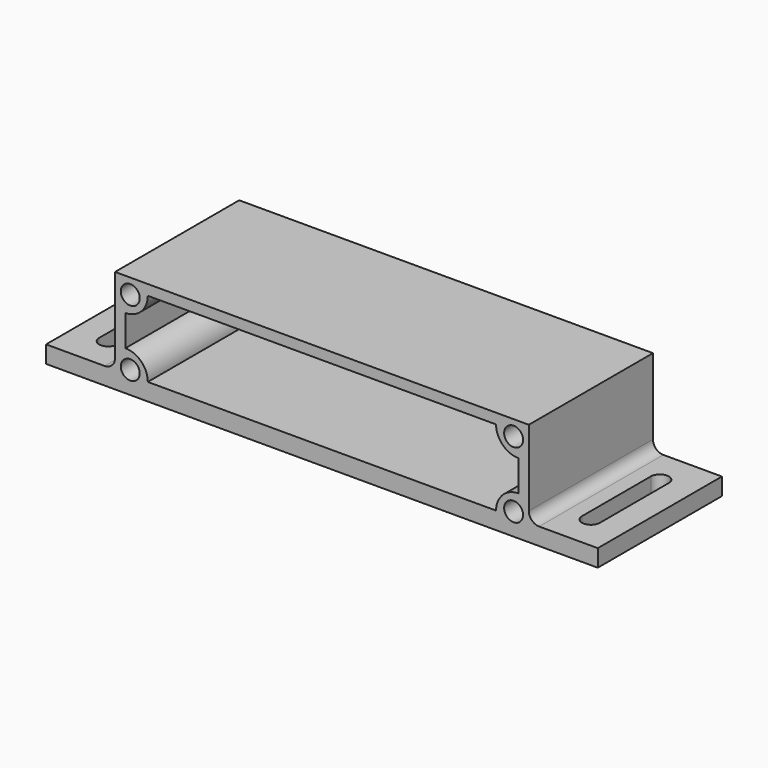
from build123d import *

# Parameters (mm, degrees)
F1_DEPTH = 45
F2_W     = 114
F2_H     = 22
F3_DEPTH = 50
F5_DEPTH = 45
F6_R     = 3
F8_DEPTH = 5
F10_D    = 5.5


with BuildPart() as f1:
    # F0 (on Front) → F1 (new body)
    with BuildSketch(Plane.XZ):
        Polygon((0, 5), (0, 0), (160, 0), (160, 5), (140, 5), (140, 30), (20, 30), (20, 5), align=None)
    extrude(amount=F1_DEPTH)

    # F2 (on face) → F3 (cut)
    with BuildSketch(Plane.XZ.offset(45)):
        with Locations((80, 16)):
            Rectangle(F2_W, F2_H)
    extrude(amount=-F3_DEPTH, mode=Mode.SUBTRACT)

    # F4 (on face) → F5 (join, through all)
    with BuildSketch(Plane.XZ.offset(45)):
        with BuildLine():
            ThreePointArc((29.5, 5), (27.5961940777, 9.5961940777), (23, 11.5))
            Line((23, 11.5), (23, 5))
            Line((23, 5), (29.5, 5))
        make_face()
        with BuildLine():
            Line((23, 27), (23, 20.5))
            ThreePointArc((23, 20.5), (27.5961940777, 22.4038059223), (29.5, 27))
            Line((29.5, 27), (23, 27))
        make_face()
        with BuildLine():
            Line((137, 27), (130.5, 27))
            ThreePointArc((130.5, 27), (132.4038059223, 22.4038059223), (137, 20.5))
            Line((137, 20.5), (137, 27))
        make_face()
        with BuildLine():
            ThreePointArc((137, 11.5), (132.4038059223, 9.5961940777), (130.5, 5))
            Line((130.5, 5), (137, 5))
            Line((137, 5), (137, 11.5))
        make_face()
    extrude(amount=-F5_DEPTH)

    # F6
    f6_edges = [f1.edges().sort_by_distance(p)[0] for p in [
        (140, -22.5, 5),
        (20, -22.5, 5),
    ]]
    fillet(f6_edges, radius=F6_R)

    # F7 (on face) → F8 (cut, through all)
    with BuildSketch(Plane(origin=(0, 0, 0), x_dir=(1, 0, 0), z_dir=(0, 0, -1))):
        with BuildLine():
            ThreePointArc((12.6, 35), (10, 37.6), (7.4, 35))
            Line((7.4, 35), (7.4, 10))
            ThreePointArc((7.4, 10), (10, 7.4), (12.6, 10))
            Line((12.6, 10), (12.6, 35))
        make_face()
        with BuildLine():
            ThreePointArc((152.6, 35), (150, 37.6), (147.4, 35))
            Line((147.4, 35), (147.4, 10))
            ThreePointArc((147.4, 10), (150, 7.4), (152.6, 10))
            Line((152.6, 10), (152.6, 35))
        make_face()
    extrude(amount=-F8_DEPTH, mode=Mode.SUBTRACT)

    # F10 (through all)
    with Locations(Plane.XZ.offset(45)):
        with Locations((24.4142135624, 25.5857864376), (24.4142135624, 6.4142135624), (135.5857864376, 6.4142135624), (135.5857864376, 25.5857864376)):
            Hole(F10_D / 2)


solid = f1.part
